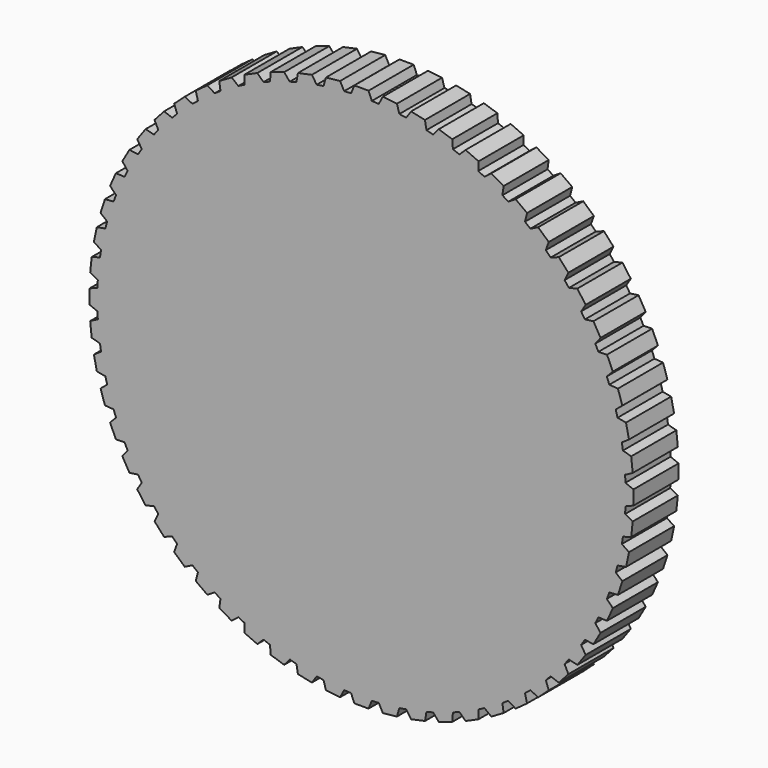
from build123d import *

# Parameters (mm, degrees)
F1_DEPTH = 10


with BuildPart() as f1:
    # F0 (on Front) → F1 (new body)
    with BuildSketch(Plane.XZ):
        with BuildLine():
            ThreePointArc((46.818988, -1.836674), (46.845996, -0.918514), (46.855, 0))
            ThreePointArc((46.855, 0), (46.845996, 0.918514), (46.818988, 1.836674))
            ThreePointArc((46.818988, 1.836674), (46.790787, 2.452201), (46.754494, 3.067304))
            ThreePointArc((46.754494, 3.067304), (46.598323, 4.897681), (46.370524, 6.72053))
            ThreePointArc((46.370524, 6.72053), (46.278137, 7.329737), (46.177747, 7.937677))
            ThreePointArc((46.177747, 7.937677), (45.831106, 9.741702), (45.414015, 11.530753))
            ThreePointArc((45.414015, 11.530753), (45.258455, 12.126966), (45.095067, 12.721082))
            ThreePointArc((45.095067, 12.721082), (44.561753, 14.478991), (43.95994, 16.214644))
            ThreePointArc((43.95994, 16.214644), (43.742911, 16.79133), (43.518317, 17.365113))
            ThreePointArc((43.518317, 17.365113), (42.804172, 19.057645), (42.024231, 20.720883))
            ThreePointArc((42.024231, 20.720883), (41.748111, 21.271725), (41.46477, 21.818888))
            ThreePointArc((41.46477, 21.818888), (40.57762, 23.4275), (39.628096, 25.000101))
            ThreePointArc((39.628096, 25.000101), (39.295909, 25.519062), (38.956927, 26.03361))
            ThreePointArc((38.956927, 26.03361), (37.906491, 27.540678), (36.797787, 29.005411))
            ThreePointArc((36.797787, 29.005411), (36.413174, 29.486807), (36.022264, 29.963103))
            ThreePointArc((36.022264, 29.963103), (34.820051, 31.352115), (33.564314, 32.692933))
            ThreePointArc((33.564314, 32.692933), (33.131488, 33.131488), (32.692933, 33.564314))
            ThreePointArc((32.692933, 33.564314), (31.352115, 34.820051), (29.963103, 36.022264))
            ThreePointArc((29.963103, 36.022264), (29.486807, 36.413174), (29.005411, 36.797787))
            ThreePointArc((29.005411, 36.797787), (27.540678, 37.906491), (26.03361, 38.956927))
            ThreePointArc((26.03361, 38.956927), (25.519062, 39.295909), (25.000101, 39.628096))
            ThreePointArc((25.000101, 39.628096), (23.4275, 40.57762), (21.818888, 41.46477))
            ThreePointArc((21.818888, 41.46477), (21.271725, 41.748111), (20.720883, 42.024231))
            ThreePointArc((20.720883, 42.024231), (19.057645, 42.804172), (17.365113, 43.518317))
            ThreePointArc((17.365113, 43.518317), (16.79133, 43.742911), (16.214644, 43.95994))
            ThreePointArc((16.214644, 43.95994), (14.478991, 44.561753), (12.721082, 45.095067))
            ThreePointArc((12.721082, 45.095067), (12.126966, 45.258455), (11.530753, 45.414015))
            ThreePointArc((11.530753, 45.414015), (9.741702, 45.831106), (7.937677, 46.177747))
            ThreePointArc((7.937677, 46.177747), (7.329737, 46.278137), (6.72053, 46.370524))
            ThreePointArc((6.72053, 46.370524), (4.897681, 46.598323), (3.067304, 46.754494))
            ThreePointArc((3.067304, 46.754494), (2.452201, 46.790787), (1.836674, 46.818988))
            ThreePointArc((1.836674, 46.818988), (0, 46.855), (-1.836674, 46.818988))
            ThreePointArc((-1.836674, 46.818988), (-2.452201, 46.790787), (-3.067304, 46.754494))
            ThreePointArc((-3.067304, 46.754494), (-4.897681, 46.598323), (-6.72053, 46.370524))
            ThreePointArc((-6.72053, 46.370524), (-7.329737, 46.278137), (-7.937677, 46.177747))
            ThreePointArc((-7.937677, 46.177747), (-9.741702, 45.831106), (-11.530753, 45.414015))
            ThreePointArc((-11.530753, 45.414015), (-12.126966, 45.258455), (-12.721082, 45.095067))
            ThreePointArc((-12.721082, 45.095067), (-14.478991, 44.561753), (-16.214644, 43.95994))
            ThreePointArc((-16.214644, 43.95994), (-16.79133, 43.742911), (-17.365113, 43.518317))
            ThreePointArc((-17.365113, 43.518317), (-19.057645, 42.804172), (-20.720883, 42.024231))
            ThreePointArc((-20.720883, 42.024231), (-21.271725, 41.748111), (-21.818888, 41.46477))
            ThreePointArc((-21.818888, 41.46477), (-23.4275, 40.57762), (-25.000101, 39.628096))
            ThreePointArc((-25.000101, 39.628096), (-25.519062, 39.295909), (-26.03361, 38.956927))
            ThreePointArc((-26.03361, 38.956927), (-27.540678, 37.906491), (-29.005411, 36.797787))
            ThreePointArc((-29.005411, 36.797787), (-29.486807, 36.413174), (-29.963103, 36.022264))
            ThreePointArc((-29.963103, 36.022264), (-31.352115, 34.820051), (-32.692933, 33.564314))
            ThreePointArc((-32.692933, 33.564314), (-33.131488, 33.131488), (-33.564314, 32.692933))
            ThreePointArc((-33.564314, 32.692933), (-34.820051, 31.352115), (-36.022264, 29.963103))
            ThreePointArc((-36.022264, 29.963103), (-36.413174, 29.486807), (-36.797787, 29.005411))
            ThreePointArc((-36.797787, 29.005411), (-37.906491, 27.540678), (-38.956927, 26.03361))
            ThreePointArc((-38.956927, 26.03361), (-39.295909, 25.519062), (-39.628096, 25.000101))
            ThreePointArc((-39.628096, 25.000101), (-40.57762, 23.4275), (-41.46477, 21.818888))
            ThreePointArc((-41.46477, 21.818888), (-41.748111, 21.271725), (-42.024231, 20.720883))
            ThreePointArc((-42.024231, 20.720883), (-42.804172, 19.057645), (-43.518317, 17.365113))
            ThreePointArc((-43.518317, 17.365113), (-43.742911, 16.79133), (-43.95994, 16.214644))
            ThreePointArc((-43.95994, 16.214644), (-44.561753, 14.478991), (-45.095067, 12.721082))
            ThreePointArc((-45.095067, 12.721082), (-45.258455, 12.126966), (-45.414015, 11.530753))
            ThreePointArc((-45.414015, 11.530753), (-45.831106, 9.741702), (-46.177747, 7.937677))
            ThreePointArc((-46.177747, 7.937677), (-46.278137, 7.329737), (-46.370524, 6.72053))
            ThreePointArc((-46.370524, 6.72053), (-46.598323, 4.897681), (-46.754494, 3.067304))
            ThreePointArc((-46.754494, 3.067304), (-46.790787, 2.452201), (-46.818988, 1.836674))
            ThreePointArc((-46.818988, 1.836674), (-46.855, 0), (-46.818988, -1.836674))
            ThreePointArc((-46.818988, -1.836674), (-46.790787, -2.452201), (-46.754494, -3.067304))
            ThreePointArc((-46.754494, -3.067304), (-46.598323, -4.897681), (-46.370524, -6.72053))
            ThreePointArc((-46.370524, -6.72053), (-46.278137, -7.329737), (-46.177747, -7.937677))
            ThreePointArc((-46.177747, -7.937677), (-45.831106, -9.741702), (-45.414015, -11.530753))
            ThreePointArc((-45.414015, -11.530753), (-45.258455, -12.126966), (-45.095067, -12.721082))
            ThreePointArc((-45.095067, -12.721082), (-44.561753, -14.478991), (-43.95994, -16.214644))
            ThreePointArc((-43.95994, -16.214644), (-43.742911, -16.79133), (-43.518317, -17.365113))
            ThreePointArc((-43.518317, -17.365113), (-42.804172, -19.057645), (-42.024231, -20.720883))
            ThreePointArc((-42.024231, -20.720883), (-41.748111, -21.271725), (-41.46477, -21.818888))
            ThreePointArc((-41.46477, -21.818888), (-40.57762, -23.4275), (-39.628096, -25.000101))
            ThreePointArc((-39.628096, -25.000101), (-39.295909, -25.519062), (-38.956927, -26.03361))
            ThreePointArc((-38.956927, -26.03361), (-37.906491, -27.540678), (-36.797787, -29.005411))
            ThreePointArc((-36.797787, -29.005411), (-36.413174, -29.486807), (-36.022264, -29.963103))
            ThreePointArc((-36.022264, -29.963103), (-34.820051, -31.352115), (-33.564314, -32.692933))
            ThreePointArc((-33.564314, -32.692933), (-33.131488, -33.131488), (-32.692933, -33.564314))
            ThreePointArc((-32.692933, -33.564314), (-31.352115, -34.820051), (-29.963103, -36.022264))
            ThreePointArc((-29.963103, -36.022264), (-29.486807, -36.413174), (-29.005411, -36.797787))
            ThreePointArc((-29.005411, -36.797787), (-27.540678, -37.906491), (-26.03361, -38.956927))
            ThreePointArc((-26.03361, -38.956927), (-25.519062, -39.295909), (-25.000101, -39.628096))
            ThreePointArc((-25.000101, -39.628096), (-23.4275, -40.57762), (-21.818888, -41.46477))
            ThreePointArc((-21.818888, -41.46477), (-21.271725, -41.748111), (-20.720883, -42.024231))
            ThreePointArc((-20.720883, -42.024231), (-19.057645, -42.804172), (-17.365113, -43.518317))
            ThreePointArc((-17.365113, -43.518317), (-16.79133, -43.742911), (-16.214644, -43.95994))
            ThreePointArc((-16.214644, -43.95994), (-14.478991, -44.561753), (-12.721082, -45.095067))
            ThreePointArc((-12.721082, -45.095067), (-12.126966, -45.258455), (-11.530753, -45.414015))
            ThreePointArc((-11.530753, -45.414015), (-9.741702, -45.831106), (-7.937677, -46.177747))
            ThreePointArc((-7.937677, -46.177747), (-7.329737, -46.278137), (-6.72053, -46.370524))
            ThreePointArc((-6.72053, -46.370524), (-4.897681, -46.598323), (-3.067304, -46.754494))
            ThreePointArc((-3.067304, -46.754494), (-2.452201, -46.790787), (-1.836674, -46.818988))
            ThreePointArc((-1.836674, -46.818988), (0, -46.855), (1.836674, -46.818988))
            ThreePointArc((1.836674, -46.818988), (2.452201, -46.790787), (3.067304, -46.754494))
            ThreePointArc((3.067304, -46.754494), (4.897681, -46.598323), (6.72053, -46.370524))
            ThreePointArc((6.72053, -46.370524), (7.329737, -46.278137), (7.937677, -46.177747))
            ThreePointArc((7.937677, -46.177747), (9.741702, -45.831106), (11.530753, -45.414015))
            ThreePointArc((11.530753, -45.414015), (12.126966, -45.258455), (12.721082, -45.095067))
            ThreePointArc((12.721082, -45.095067), (14.478991, -44.561753), (16.214644, -43.95994))
            ThreePointArc((16.214644, -43.95994), (16.79133, -43.742911), (17.365113, -43.518317))
            ThreePointArc((17.365113, -43.518317), (19.057645, -42.804172), (20.720883, -42.024231))
            ThreePointArc((20.720883, -42.024231), (21.271725, -41.748111), (21.818888, -41.46477))
            ThreePointArc((21.818888, -41.46477), (23.4275, -40.57762), (25.000101, -39.628096))
            ThreePointArc((25.000101, -39.628096), (25.519062, -39.295909), (26.03361, -38.956927))
            ThreePointArc((26.03361, -38.956927), (27.540678, -37.906491), (29.005411, -36.797787))
            ThreePointArc((29.005411, -36.797787), (29.486807, -36.413174), (29.963103, -36.022264))
            ThreePointArc((29.963103, -36.022264), (31.352115, -34.820051), (32.692933, -33.564314))
            ThreePointArc((32.692933, -33.564314), (33.131488, -33.131488), (33.564314, -32.692933))
            ThreePointArc((33.564314, -32.692933), (34.820051, -31.352115), (36.022264, -29.963103))
            ThreePointArc((36.022264, -29.963103), (36.413174, -29.486807), (36.797787, -29.005411))
            ThreePointArc((36.797787, -29.005411), (37.906491, -27.540678), (38.956927, -26.03361))
            ThreePointArc((38.956927, -26.03361), (39.295909, -25.519062), (39.628096, -25.000101))
            ThreePointArc((39.628096, -25.000101), (40.57762, -23.4275), (41.46477, -21.818888))
            ThreePointArc((41.46477, -21.818888), (41.748111, -21.271725), (42.024231, -20.720883))
            ThreePointArc((42.024231, -20.720883), (42.804172, -19.057645), (43.518317, -17.365113))
            ThreePointArc((43.518317, -17.365113), (43.742911, -16.79133), (43.95994, -16.214644))
            ThreePointArc((43.95994, -16.214644), (44.561753, -14.478991), (45.095067, -12.721082))
            ThreePointArc((45.095067, -12.721082), (45.258455, -12.126966), (45.414015, -11.530753))
            ThreePointArc((45.414015, -11.530753), (45.831106, -9.741702), (46.177747, -7.937677))
            ThreePointArc((46.177747, -7.937677), (46.278137, -7.329737), (46.370524, -6.72053))
            ThreePointArc((46.370524, -6.72053), (46.598323, -4.897681), (46.754494, -3.067304))
            ThreePointArc((46.754494, -3.067304), (46.790787, -2.452201), (46.818988, -1.836674))
        make_face()
        with BuildLine():
            ThreePointArc((46.818988, 1.836674), (46.845996, 0.918514), (46.855, 0))
            ThreePointArc((46.855, 0), (46.845996, -0.918514), (46.818988, -1.836674))
            Line((46.818988, -1.836674), (48.238464, -1.263169))
            Line((48.238464, -1.263169), (48.238464, 1.263169))
            Line((48.238464, 1.263169), (46.818988, 1.836674))
        make_face()
        with BuildLine():
            ThreePointArc((46.370524, 6.72053), (46.598323, 4.897681), (46.754494, 3.067304))
            Line((46.754494, 3.067304), (48.106246, 3.786044))
            Line((48.106246, 3.786044), (47.842172, 6.298541))
            Line((47.842172, 6.298541), (46.370524, 6.72053))
        make_face()
        with BuildLine():
            Line((48.106246, -3.786044), (46.754494, -3.067304))
            ThreePointArc((46.754494, -3.067304), (46.598323, -4.897681), (46.370524, -6.72053))
            Line((46.370524, -6.72053), (47.842172, -6.298541))
            Line((47.842172, -6.298541), (48.106246, -3.786044))
        make_face()
        with BuildLine():
            ThreePointArc((45.414015, 11.530753), (45.831106, 9.741702), (46.177747, 7.937677))
            Line((46.177747, 7.937677), (47.446966, 8.793775))
            Line((47.446966, 8.793775), (46.921711, 11.264906))
            Line((46.921711, 11.264906), (45.414015, 11.530753))
        make_face()
        with BuildLine():
            Line((47.446966, -8.793775), (46.177747, -7.937677))
            ThreePointArc((46.177747, -7.937677), (45.831106, -9.741702), (45.414015, -11.530753))
            Line((45.414015, -11.530753), (46.921711, -11.264906))
            Line((46.921711, -11.264906), (47.446966, -8.793775))
        make_face()
        with BuildLine():
            ThreePointArc((43.95994, 16.214644), (44.561753, 14.478991), (45.095067, 12.721082))
            Line((45.095067, 12.721082), (46.267846, 13.70516))
            Line((46.267846, 13.70516), (45.487165, 16.10785))
            Line((45.487165, 16.10785), (43.95994, 16.214644))
        make_face()
        with BuildLine():
            Line((46.267846, -13.70516), (45.095067, -12.721082))
            ThreePointArc((45.095067, -12.721082), (44.561753, -14.478991), (43.95994, -16.214644))
            Line((43.95994, -16.214644), (45.487165, -16.10785))
            Line((45.487165, -16.10785), (46.267846, -13.70516))
        make_face()
        with BuildLine():
            ThreePointArc((42.024231, 20.720883), (42.804172, 19.057645), (43.518317, 17.365113))
            Line((43.518317, 17.365113), (44.581807, 18.466389))
            Line((44.581807, 18.466389), (43.554253, 20.774313))
            Line((43.554253, 20.774313), (42.024231, 20.720883))
        make_face()
        with BuildLine():
            Line((44.581807, -18.466389), (43.518317, -17.365113))
            ThreePointArc((43.518317, -17.365113), (42.804172, -19.057645), (42.024231, -20.720883))
            Line((42.024231, -20.720883), (43.554253, -20.774313))
            Line((43.554253, -20.774313), (44.581807, -18.466389))
        make_face()
        with BuildLine():
            ThreePointArc((39.628096, 25.000101), (40.57762, 23.4275), (41.46477, 21.818888))
            Line((41.46477, 21.818888), (42.40732, 23.025296))
            Line((42.40732, 23.025296), (41.144151, 25.213168))
            Line((41.144151, 25.213168), (39.628096, 25.000101))
        make_face()
        with BuildLine():
            Line((42.40732, -23.025296), (41.46477, -21.818888))
            ThreePointArc((41.46477, -21.818888), (40.57762, -23.4275), (39.628096, -25.000101))
            Line((39.628096, -25.000101), (41.144151, -25.213168))
            Line((41.144151, -25.213168), (42.40732, -23.025296))
        make_face()
        with BuildLine():
            ThreePointArc((36.797787, 29.005411), (37.906491, 27.540678), (38.956927, 26.03361))
            Line((38.956927, 26.03361), (39.768209, 27.331933))
            Line((39.768209, 27.331933), (38.283265, 29.375783))
            Line((38.283265, 29.375783), (36.797787, 29.005411))
        make_face()
        with BuildLine():
            Line((39.768209, -27.331933), (38.956927, -26.03361))
            ThreePointArc((38.956927, -26.03361), (37.906491, -27.540678), (36.797787, -29.005411))
            Line((36.797787, -29.005411), (38.283265, -29.375783))
            Line((38.283265, -29.375783), (39.768209, -27.331933))
        make_face()
        with BuildLine():
            ThreePointArc((33.564314, 32.692933), (34.820051, 31.352115), (36.022264, 29.963103))
            Line((36.022264, 29.963103), (36.69339, 31.339116))
            Line((36.69339, 31.339116), (35.00294, 33.21655))
            Line((35.00294, 33.21655), (33.564314, 32.692933))
        make_face()
        with BuildLine():
            Line((36.69339, -31.339116), (36.022264, -29.963103))
            ThreePointArc((36.022264, -29.963103), (34.820051, -31.352115), (33.564314, -32.692933))
            Line((33.564314, -32.692933), (35.00294, -33.21655))
            Line((35.00294, -33.21655), (36.69339, -31.339116))
        make_face()
        with BuildLine():
            ThreePointArc((29.963103, 36.022264), (31.352115, 34.820051), (32.692933, 33.564314))
            Line((32.692933, 33.564314), (33.21655, 35.00294))
            Line((33.21655, 35.00294), (31.339116, 36.69339))
            Line((31.339116, 36.69339), (29.963103, 36.022264))
        make_face()
        with BuildLine():
            Line((33.21655, -35.00294), (32.692933, -33.564314))
            ThreePointArc((32.692933, -33.564314), (31.352115, -34.820051), (29.963103, -36.022264))
            Line((29.963103, -36.022264), (31.339116, -36.69339))
            Line((31.339116, -36.69339), (33.21655, -35.00294))
        make_face()
        with BuildLine():
            ThreePointArc((26.03361, 38.956927), (27.540678, 37.906491), (29.005411, 36.797787))
            Line((29.005411, 36.797787), (29.375783, 38.283265))
            Line((29.375783, 38.283265), (27.331933, 39.768209))
            Line((27.331933, 39.768209), (26.03361, 38.956927))
        make_face()
        with BuildLine():
            Line((29.375783, -38.283265), (29.005411, -36.797787))
            ThreePointArc((29.005411, -36.797787), (27.540678, -37.906491), (26.03361, -38.956927))
            Line((26.03361, -38.956927), (27.331933, -39.768209))
            Line((27.331933, -39.768209), (29.375783, -38.283265))
        make_face()
        with BuildLine():
            ThreePointArc((21.818888, 41.46477), (23.4275, 40.57762), (25.000101, 39.628096))
            Line((25.000101, 39.628096), (25.213168, 41.144151))
            Line((25.213168, 41.144151), (23.025296, 42.40732))
            Line((23.025296, 42.40732), (21.818888, 41.46477))
        make_face()
        with BuildLine():
            Line((25.213168, -41.144151), (25.000101, -39.628096))
            ThreePointArc((25.000101, -39.628096), (23.4275, -40.57762), (21.818888, -41.46477))
            Line((21.818888, -41.46477), (23.025296, -42.40732))
            Line((23.025296, -42.40732), (25.213168, -41.144151))
        make_face()
        with BuildLine():
            ThreePointArc((17.365113, 43.518317), (19.057645, 42.804172), (20.720883, 42.024231))
            Line((20.720883, 42.024231), (20.774313, 43.554253))
            Line((20.774313, 43.554253), (18.466389, 44.581807))
            Line((18.466389, 44.581807), (17.365113, 43.518317))
        make_face()
        with BuildLine():
            Line((20.774313, -43.554253), (20.720883, -42.024231))
            ThreePointArc((20.720883, -42.024231), (19.057645, -42.804172), (17.365113, -43.518317))
            Line((17.365113, -43.518317), (18.466389, -44.581807))
            Line((18.466389, -44.581807), (20.774313, -43.554253))
        make_face()
        with BuildLine():
            ThreePointArc((12.721082, 45.095067), (14.478991, 44.561753), (16.214644, 43.95994))
            Line((16.214644, 43.95994), (16.10785, 45.487165))
            Line((16.10785, 45.487165), (13.70516, 46.267846))
            Line((13.70516, 46.267846), (12.721082, 45.095067))
        make_face()
        with BuildLine():
            Line((16.10785, -45.487165), (16.214644, -43.95994))
            ThreePointArc((16.214644, -43.95994), (14.478991, -44.561753), (12.721082, -45.095067))
            Line((12.721082, -45.095067), (13.70516, -46.267846))
            Line((13.70516, -46.267846), (16.10785, -45.487165))
        make_face()
        with BuildLine():
            ThreePointArc((7.937677, 46.177747), (9.741702, 45.831106), (11.530753, 45.414015))
            Line((11.530753, 45.414015), (11.264906, 46.921711))
            Line((11.264906, 46.921711), (8.793775, 47.446966))
            Line((8.793775, 47.446966), (7.937677, 46.177747))
        make_face()
        with BuildLine():
            Line((11.264906, -46.921711), (11.530753, -45.414015))
            ThreePointArc((11.530753, -45.414015), (9.741702, -45.831106), (7.937677, -46.177747))
            Line((7.937677, -46.177747), (8.793775, -47.446966))
            Line((8.793775, -47.446966), (11.264906, -46.921711))
        make_face()
        with BuildLine():
            ThreePointArc((3.067304, 46.754494), (4.897681, 46.598323), (6.72053, 46.370524))
            Line((6.72053, 46.370524), (6.298541, 47.842172))
            Line((6.298541, 47.842172), (3.786044, 48.106246))
            Line((3.786044, 48.106246), (3.067304, 46.754494))
        make_face()
        with BuildLine():
            Line((6.298541, -47.842172), (6.72053, -46.370524))
            ThreePointArc((6.72053, -46.370524), (4.897681, -46.598323), (3.067304, -46.754494))
            Line((3.067304, -46.754494), (3.786044, -48.106246))
            Line((3.786044, -48.106246), (6.298541, -47.842172))
        make_face()
        with BuildLine():
            ThreePointArc((-1.836674, 46.818988), (0, 46.855), (1.836674, 46.818988))
            Line((1.836674, 46.818988), (1.263169, 48.238464))
            Line((1.263169, 48.238464), (-1.263169, 48.238464))
            Line((-1.263169, 48.238464), (-1.836674, 46.818988))
        make_face()
        with BuildLine():
            Line((1.263169, -48.238464), (1.836674, -46.818988))
            ThreePointArc((1.836674, -46.818988), (0, -46.855), (-1.836674, -46.818988))
            Line((-1.836674, -46.818988), (-1.263169, -48.238464))
            Line((-1.263169, -48.238464), (1.263169, -48.238464))
        make_face()
        with BuildLine():
            ThreePointArc((-6.72053, 46.370524), (-4.897681, 46.598323), (-3.067304, 46.754494))
            Line((-3.067304, 46.754494), (-3.786044, 48.106246))
            Line((-3.786044, 48.106246), (-6.298541, 47.842172))
            Line((-6.298541, 47.842172), (-6.72053, 46.370524))
        make_face()
        with BuildLine():
            Line((-3.786044, -48.106246), (-3.067304, -46.754494))
            ThreePointArc((-3.067304, -46.754494), (-4.897681, -46.598323), (-6.72053, -46.370524))
            Line((-6.72053, -46.370524), (-6.298541, -47.842172))
            Line((-6.298541, -47.842172), (-3.786044, -48.106246))
        make_face()
        with BuildLine():
            ThreePointArc((-11.530753, 45.414015), (-9.741702, 45.831106), (-7.937677, 46.177747))
            Line((-7.937677, 46.177747), (-8.793775, 47.446966))
            Line((-8.793775, 47.446966), (-11.264906, 46.921711))
            Line((-11.264906, 46.921711), (-11.530753, 45.414015))
        make_face()
        with BuildLine():
            Line((-8.793775, -47.446966), (-7.937677, -46.177747))
            ThreePointArc((-7.937677, -46.177747), (-9.741702, -45.831106), (-11.530753, -45.414015))
            Line((-11.530753, -45.414015), (-11.264906, -46.921711))
            Line((-11.264906, -46.921711), (-8.793775, -47.446966))
        make_face()
        with BuildLine():
            ThreePointArc((-16.214644, 43.95994), (-14.478991, 44.561753), (-12.721082, 45.095067))
            Line((-12.721082, 45.095067), (-13.70516, 46.267846))
            Line((-13.70516, 46.267846), (-16.10785, 45.487165))
            Line((-16.10785, 45.487165), (-16.214644, 43.95994))
        make_face()
        with BuildLine():
            Line((-13.70516, -46.267846), (-12.721082, -45.095067))
            ThreePointArc((-12.721082, -45.095067), (-14.478991, -44.561753), (-16.214644, -43.95994))
            Line((-16.214644, -43.95994), (-16.10785, -45.487165))
            Line((-16.10785, -45.487165), (-13.70516, -46.267846))
        make_face()
        with BuildLine():
            ThreePointArc((-20.720883, 42.024231), (-19.057645, 42.804172), (-17.365113, 43.518317))
            Line((-17.365113, 43.518317), (-18.466389, 44.581807))
            Line((-18.466389, 44.581807), (-20.774313, 43.554253))
            Line((-20.774313, 43.554253), (-20.720883, 42.024231))
        make_face()
        with BuildLine():
            Line((-18.466389, -44.581807), (-17.365113, -43.518317))
            ThreePointArc((-17.365113, -43.518317), (-19.057645, -42.804172), (-20.720883, -42.024231))
            Line((-20.720883, -42.024231), (-20.774313, -43.554253))
            Line((-20.774313, -43.554253), (-18.466389, -44.581807))
        make_face()
        with BuildLine():
            ThreePointArc((-25.000101, 39.628096), (-23.4275, 40.57762), (-21.818888, 41.46477))
            Line((-21.818888, 41.46477), (-23.025296, 42.40732))
            Line((-23.025296, 42.40732), (-25.213168, 41.144151))
            Line((-25.213168, 41.144151), (-25.000101, 39.628096))
        make_face()
        with BuildLine():
            Line((-23.025296, -42.40732), (-21.818888, -41.46477))
            ThreePointArc((-21.818888, -41.46477), (-23.4275, -40.57762), (-25.000101, -39.628096))
            Line((-25.000101, -39.628096), (-25.213168, -41.144151))
            Line((-25.213168, -41.144151), (-23.025296, -42.40732))
        make_face()
        with BuildLine():
            ThreePointArc((-29.005411, 36.797787), (-27.540678, 37.906491), (-26.03361, 38.956927))
            Line((-26.03361, 38.956927), (-27.331933, 39.768209))
            Line((-27.331933, 39.768209), (-29.375783, 38.283265))
            Line((-29.375783, 38.283265), (-29.005411, 36.797787))
        make_face()
        with BuildLine():
            Line((-27.331933, -39.768209), (-26.03361, -38.956927))
            ThreePointArc((-26.03361, -38.956927), (-27.540678, -37.906491), (-29.005411, -36.797787))
            Line((-29.005411, -36.797787), (-29.375783, -38.283265))
            Line((-29.375783, -38.283265), (-27.331933, -39.768209))
        make_face()
        with BuildLine():
            ThreePointArc((-32.692933, 33.564314), (-31.352115, 34.820051), (-29.963103, 36.022264))
            Line((-29.963103, 36.022264), (-31.339116, 36.69339))
            Line((-31.339116, 36.69339), (-33.21655, 35.00294))
            Line((-33.21655, 35.00294), (-32.692933, 33.564314))
        make_face()
        with BuildLine():
            Line((-31.339116, -36.69339), (-29.963103, -36.022264))
            ThreePointArc((-29.963103, -36.022264), (-31.352115, -34.820051), (-32.692933, -33.564314))
            Line((-32.692933, -33.564314), (-33.21655, -35.00294))
            Line((-33.21655, -35.00294), (-31.339116, -36.69339))
        make_face()
        with BuildLine():
            ThreePointArc((-36.022264, 29.963103), (-34.820051, 31.352115), (-33.564314, 32.692933))
            Line((-33.564314, 32.692933), (-35.00294, 33.21655))
            Line((-35.00294, 33.21655), (-36.69339, 31.339116))
            Line((-36.69339, 31.339116), (-36.022264, 29.963103))
        make_face()
        with BuildLine():
            Line((-35.00294, -33.21655), (-33.564314, -32.692933))
            ThreePointArc((-33.564314, -32.692933), (-34.820051, -31.352115), (-36.022264, -29.963103))
            Line((-36.022264, -29.963103), (-36.69339, -31.339116))
            Line((-36.69339, -31.339116), (-35.00294, -33.21655))
        make_face()
        with BuildLine():
            ThreePointArc((-38.956927, 26.03361), (-37.906491, 27.540678), (-36.797787, 29.005411))
            Line((-36.797787, 29.005411), (-38.283265, 29.375783))
            Line((-38.283265, 29.375783), (-39.768209, 27.331933))
            Line((-39.768209, 27.331933), (-38.956927, 26.03361))
        make_face()
        with BuildLine():
            Line((-38.283265, -29.375783), (-36.797787, -29.005411))
            ThreePointArc((-36.797787, -29.005411), (-37.906491, -27.540678), (-38.956927, -26.03361))
            Line((-38.956927, -26.03361), (-39.768209, -27.331933))
            Line((-39.768209, -27.331933), (-38.283265, -29.375783))
        make_face()
        with BuildLine():
            ThreePointArc((-41.46477, 21.818888), (-40.57762, 23.4275), (-39.628096, 25.000101))
            Line((-39.628096, 25.000101), (-41.144151, 25.213168))
            Line((-41.144151, 25.213168), (-42.40732, 23.025296))
            Line((-42.40732, 23.025296), (-41.46477, 21.818888))
        make_face()
        with BuildLine():
            Line((-41.144151, -25.213168), (-39.628096, -25.000101))
            ThreePointArc((-39.628096, -25.000101), (-40.57762, -23.4275), (-41.46477, -21.818888))
            Line((-41.46477, -21.818888), (-42.40732, -23.025296))
            Line((-42.40732, -23.025296), (-41.144151, -25.213168))
        make_face()
        with BuildLine():
            ThreePointArc((-43.518317, 17.365113), (-42.804172, 19.057645), (-42.024231, 20.720883))
            Line((-42.024231, 20.720883), (-43.554253, 20.774313))
            Line((-43.554253, 20.774313), (-44.581807, 18.466389))
            Line((-44.581807, 18.466389), (-43.518317, 17.365113))
        make_face()
        with BuildLine():
            Line((-43.554253, -20.774313), (-42.024231, -20.720883))
            ThreePointArc((-42.024231, -20.720883), (-42.804172, -19.057645), (-43.518317, -17.365113))
            Line((-43.518317, -17.365113), (-44.581807, -18.466389))
            Line((-44.581807, -18.466389), (-43.554253, -20.774313))
        make_face()
        with BuildLine():
            ThreePointArc((-45.095067, 12.721082), (-44.561753, 14.478991), (-43.95994, 16.214644))
            Line((-43.95994, 16.214644), (-45.487165, 16.10785))
            Line((-45.487165, 16.10785), (-46.267846, 13.70516))
            Line((-46.267846, 13.70516), (-45.095067, 12.721082))
        make_face()
        with BuildLine():
            Line((-45.487165, -16.10785), (-43.95994, -16.214644))
            ThreePointArc((-43.95994, -16.214644), (-44.561753, -14.478991), (-45.095067, -12.721082))
            Line((-45.095067, -12.721082), (-46.267846, -13.70516))
            Line((-46.267846, -13.70516), (-45.487165, -16.10785))
        make_face()
        with BuildLine():
            ThreePointArc((-46.177747, 7.937677), (-45.831106, 9.741702), (-45.414015, 11.530753))
            Line((-45.414015, 11.530753), (-46.921711, 11.264906))
            Line((-46.921711, 11.264906), (-47.446966, 8.793775))
            Line((-47.446966, 8.793775), (-46.177747, 7.937677))
        make_face()
        with BuildLine():
            Line((-46.921711, -11.264906), (-45.414015, -11.530753))
            ThreePointArc((-45.414015, -11.530753), (-45.831106, -9.741702), (-46.177747, -7.937677))
            Line((-46.177747, -7.937677), (-47.446966, -8.793775))
            Line((-47.446966, -8.793775), (-46.921711, -11.264906))
        make_face()
        with BuildLine():
            ThreePointArc((-46.754494, 3.067304), (-46.598323, 4.897681), (-46.370524, 6.72053))
            Line((-46.370524, 6.72053), (-47.842172, 6.298541))
            Line((-47.842172, 6.298541), (-48.106246, 3.786044))
            Line((-48.106246, 3.786044), (-46.754494, 3.067304))
        make_face()
        with BuildLine():
            Line((-47.842172, -6.298541), (-46.370524, -6.72053))
            ThreePointArc((-46.370524, -6.72053), (-46.598323, -4.897681), (-46.754494, -3.067304))
            Line((-46.754494, -3.067304), (-48.106246, -3.786044))
            Line((-48.106246, -3.786044), (-47.842172, -6.298541))
        make_face()
        with BuildLine():
            ThreePointArc((-46.818988, -1.836674), (-46.855, 0), (-46.818988, 1.836674))
            Line((-46.818988, 1.836674), (-48.238464, 1.263169))
            Line((-48.238464, 1.263169), (-48.238464, -1.263169))
            Line((-48.238464, -1.263169), (-46.818988, -1.836674))
        make_face()
    extrude(amount=F1_DEPTH)


solid = f1.part
